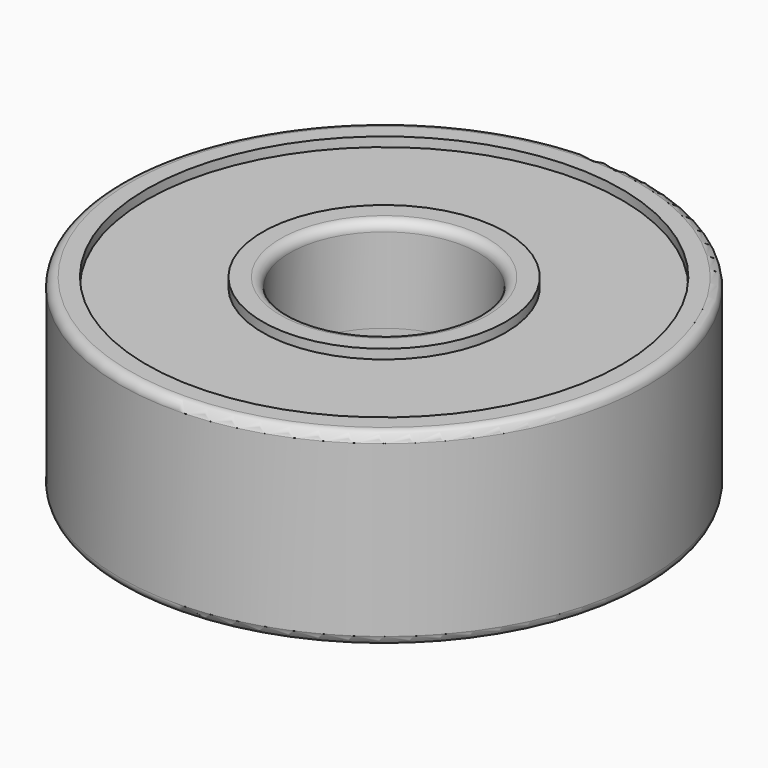
from build123d import *

# Parameters (mm, degrees)
F0_R     = 7
F0_R_2   = 2.5
F1_DEPTH = 2.5
F2_R     = 6.298938
F2_R_2   = 3.223977
F3_DEPTH = 0.25
F4_R     = 0.25


with BuildPart() as f1:
    # F0 (on Top) → F1 (new body)
    with BuildSketch(Plane.XY):
        Circle(F0_R)
        Circle(F0_R_2, mode=Mode.SUBTRACT)
    extrude(amount=F1_DEPTH)

    # F2 (on face) → F3 (cut)
    with BuildSketch(Plane.XY.offset(2.5)):
        Circle(F2_R)
        Circle(F2_R_2, mode=Mode.SUBTRACT)
    extrude(amount=-F3_DEPTH, mode=Mode.SUBTRACT)

    # F4
    f4_edges = [f1.edges().sort_by_distance(p)[0] for p in [
        (-7, 0, 2.5),
        (-2.5, 0, 2.5),
    ]]
    fillet(f4_edges, radius=F4_R)

    # F5: F1 across face


with BuildPart() as f1_1:
    add(f1.part)
    add(f1.part.mirror(Plane(origin=(0, 0, 0), x_dir=(1, 0, 0), z_dir=(0, 0, -1))))


solid = f1_1.part
